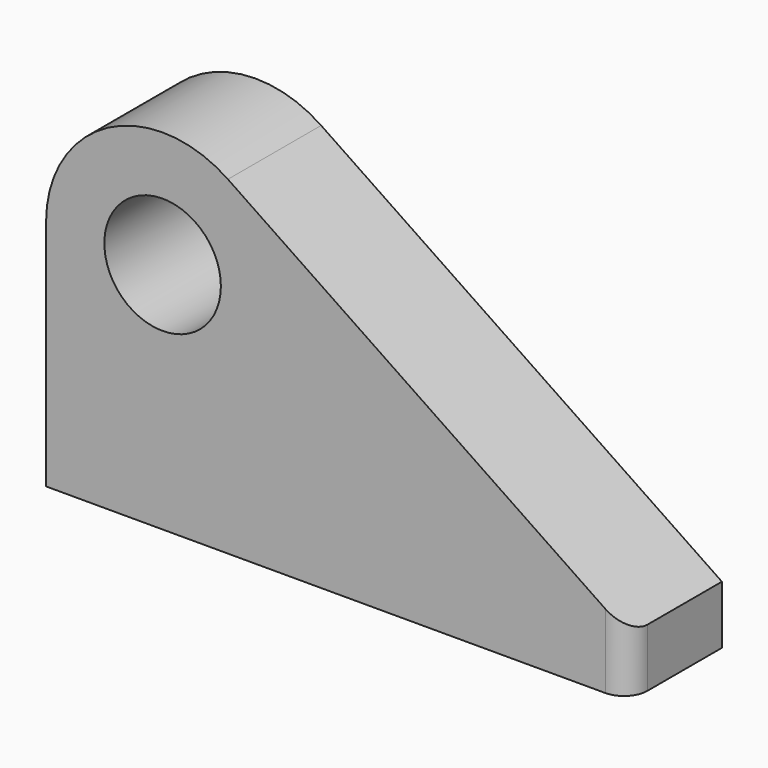
from build123d import *

# Parameters (mm, degrees)
F0_R     = 12.7
F1_DEPTH = 25.4
F2_R     = 5.08


with BuildPart() as f1:
    # F0 (on Front) → F1 (new body)
    with BuildSketch(Plane.XZ):
        with BuildLine():
            Line((54.051199, 12.7), (-33.310928, 71.834328))
            ThreePointArc((-33.310928, 71.834328), (-59.45506, 73.236599), (-72.948801, 50.8))
            Line((-72.948801, 50.8), (-72.948801, 0))
            Line((-72.948801, 0), (54.051199, 0))
            Line((54.051199, 0), (54.051199, 12.7))
        make_face()
        with Locations((-47.548801, 50.8)):
            Circle(F0_R, mode=Mode.SUBTRACT)
    extrude(amount=F1_DEPTH)

    # F2
    f2_edges = [f1.edges().sort_by_distance(p)[0] for p in [
        (54.051199, -25.4, 6.35),
    ]]
    fillet(f2_edges, radius=F2_R)


solid = f1.part
